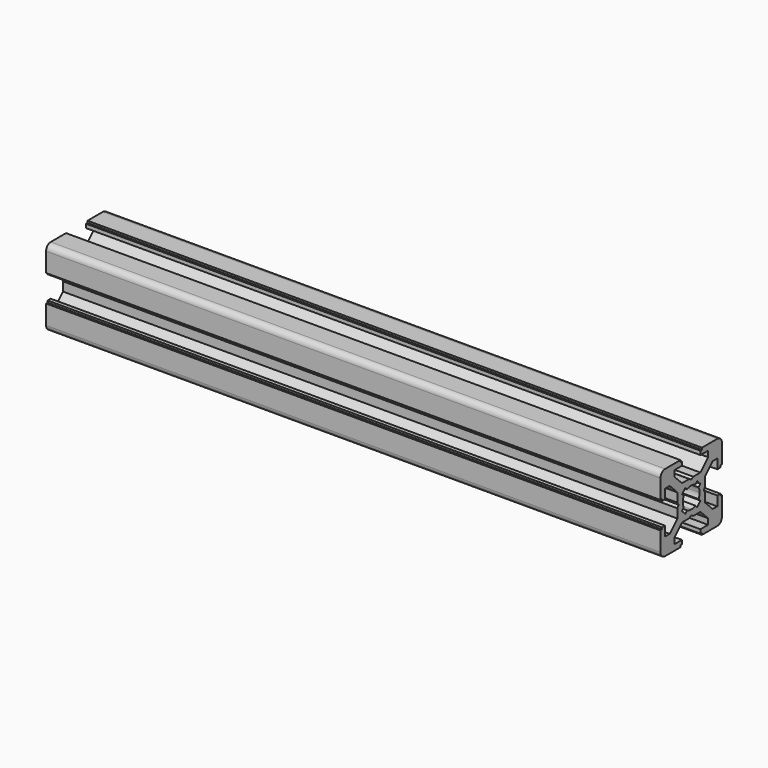
from build123d import *

# Parameters (mm, degrees)
PAD_DEPTH = 160


with BuildPart() as part:
    # Sketch → Pad (new body)
    with BuildSketch(Plane.YZ):
        with BuildLine():
            Line((0, 4.1), (0.65, 4.5))
            Line((0.65, 4.5), (3, 4.5))
            Line((3, 4.5), (5.5, 7))
            Line((5.5, 7), (5.5, 8.5))
            Line((5.5, 8.5), (3, 8.5))
            Line((3, 8.5), (3, 9.5))
            Line((3, 9.5), (3.5, 9.5))
            Line((3.5, 9.5), (3.5, 10))
            Line((3.5, 10), (8.5, 10))
            ThreePointArc((10, 8.5), (9.56066, 9.56066), (8.5, 10))
            Line((10, 8.5), (10, 3.5))
            Line((10, 3.5), (9.5, 3.5))
            Line((9.5, 3.5), (9.5, 3))
            Line((9.5, 3), (8.5, 3))
            Line((8.5, 3), (8.5, 5.5))
            Line((8.5, 5.5), (7, 5.5))
            Line((7, 5.5), (4.5, 3))
            Line((4.5, 3), (4.5, 0.65))
            Line((4.5, 0.65), (4.1, 0))
            Line((4.5, -0.65), (4.1, 0))
            Line((4.5, -3), (4.5, -0.65))
            Line((7, -5.5), (4.5, -3))
            Line((8.5, -5.5), (7, -5.5))
            Line((8.5, -3), (8.5, -5.5))
            Line((9.5, -3), (8.5, -3))
            Line((9.5, -3.5), (9.5, -3))
            Line((10, -3.5), (9.5, -3.5))
            Line((10, -8.5), (10, -3.5))
            ThreePointArc((8.5, -10), (9.56066, -9.56066), (10, -8.5))
            Line((3.5, -10), (8.5, -10))
            Line((3.5, -9.5), (3.5, -10))
            Line((3, -9.5), (3.5, -9.5))
            Line((3, -8.5), (3, -9.5))
            Line((5.5, -8.5), (3, -8.5))
            Line((5.5, -7), (5.5, -8.5))
            Line((3, -4.5), (5.5, -7))
            Line((0.65, -4.5), (3, -4.5))
            Line((0, -4.1), (0.65, -4.5))
            Line((0, -4.1), (-0.65, -4.5))
            Line((-0.65, -4.5), (-3, -4.5))
            Line((-3, -4.5), (-5.5, -7))
            Line((-5.5, -7), (-5.5, -8.5))
            Line((-5.5, -8.5), (-3, -8.5))
            Line((-3, -8.5), (-3, -9.5))
            Line((-3, -9.5), (-3.5, -9.5))
            Line((-3.5, -9.5), (-3.5, -10))
            Line((-3.5, -10), (-8.5, -10))
            ThreePointArc((-10, -8.5), (-9.56066, -9.56066), (-8.5, -10))
            Line((-10, -8.5), (-10, -3.5))
            Line((-10, -3.5), (-9.5, -3.5))
            Line((-9.5, -3.5), (-9.5, -3))
            Line((-9.5, -3), (-8.5, -3))
            Line((-8.5, -3), (-8.5, -5.5))
            Line((-8.5, -5.5), (-7, -5.5))
            Line((-7, -5.5), (-4.5, -3))
            Line((-4.5, -3), (-4.5, -0.65))
            Line((-4.5, -0.65), (-4.1, 0))
            Line((-4.5, 0.65), (-4.1, 0))
            Line((-4.5, 3), (-4.5, 0.65))
            Line((-7, 5.5), (-4.5, 3))
            Line((-8.5, 5.5), (-7, 5.5))
            Line((-8.5, 3), (-8.5, 5.5))
            Line((-9.5, 3), (-8.5, 3))
            Line((-9.5, 3.5), (-9.5, 3))
            Line((-10, 3.5), (-9.5, 3.5))
            Line((-10, 8.5), (-10, 3.5))
            ThreePointArc((-8.5, 10), (-9.56066, 9.56066), (-10, 8.5))
            Line((-3.5, 10), (-8.5, 10))
            Line((-3.5, 9.5), (-3.5, 10))
            Line((-3, 9.5), (-3.5, 9.5))
            Line((-3, 8.5), (-3, 9.5))
            Line((-5.5, 8.5), (-3, 8.5))
            Line((-5.5, 7), (-5.5, 8.5))
            Line((-3, 4.5), (-5.5, 7))
            Line((-0.65, 4.5), (-3, 4.5))
            Line((0, 4.1), (-0.65, 4.5))
        make_face()
        with BuildLine():
            Line((1.340499, 2.401159), (1.923239, 2.983899))
            Line((1.923239, 2.983899), (2.983899, 1.923239))
            Line((2.983899, 1.923239), (2.401159, 1.340499))
            ThreePointArc((2.75, 0), (2.661361, 0.692573), (2.401159, 1.340499))
            ThreePointArc((2.401164, -1.34049), (2.661362, -0.692568), (2.75, 0))
            Line((2.983904, -1.92323), (2.401164, -1.34049))
            Line((1.923247, -2.983894), (2.983904, -1.92323))
            Line((1.340507, -2.401154), (1.923247, -2.983894))
            ThreePointArc((0, -2.75), (0.692577, -2.66136), (1.340507, -2.401154))
            ThreePointArc((-1.340507, -2.401154), (-0.692577, -2.66136), (0, -2.75))
            Line((-1.340507, -2.401154), (-1.923247, -2.983894))
            Line((-1.923247, -2.983894), (-2.983904, -1.92323))
            Line((-2.983904, -1.92323), (-2.401164, -1.34049))
            ThreePointArc((-2.75, 0), (-2.661362, -0.692568), (-2.401164, -1.34049))
            ThreePointArc((-2.401159, 1.340499), (-2.661361, 0.692572), (-2.75, 0))
            Line((-2.983899, 1.923239), (-2.401159, 1.340499))
            Line((-1.923239, 2.983899), (-2.983899, 1.923239))
            Line((-1.340499, 2.401159), (-1.923239, 2.983899))
            ThreePointArc((0, 2.75), (-0.692573, 2.661361), (-1.340499, 2.401159))
            ThreePointArc((1.340499, 2.401159), (0.692573, 2.661361), (0, 2.75))
        make_face(mode=Mode.SUBTRACT)
    extrude(amount=PAD_DEPTH)


solid = part.part
